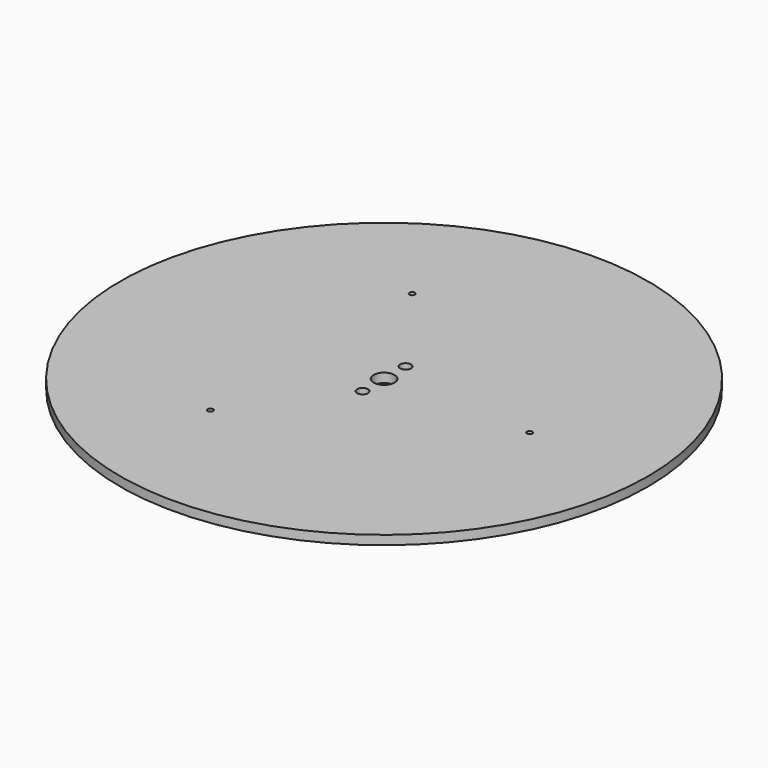
from build123d import *

# Parameters (mm, degrees)
F0_R     = 290
F0_R_2   = 3
F0_R_3   = 6
F0_R_4   = 11.5
F1_DEPTH = 10


with BuildPart() as f1:
    # F0 (on Top) → F1 (new body)
    with BuildSketch(Plane.XY):
        Circle(F0_R)
        with Locations((-80, -138.564065)):
            Circle(F0_R_2, mode=Mode.SUBTRACT)
        with Locations((0, -29.5)):
            Circle(F0_R_3, mode=Mode.SUBTRACT)
        with Locations((-80, 138.564065)):
            Circle(F0_R_2, mode=Mode.SUBTRACT)
        Circle(F0_R_4, mode=Mode.SUBTRACT)
        with Locations((0, 29.5)):
            Circle(F0_R_3, mode=Mode.SUBTRACT)
        with Locations((160, 0)):
            Circle(F0_R_2, mode=Mode.SUBTRACT)
    extrude(amount=F1_DEPTH)


solid = f1.part
